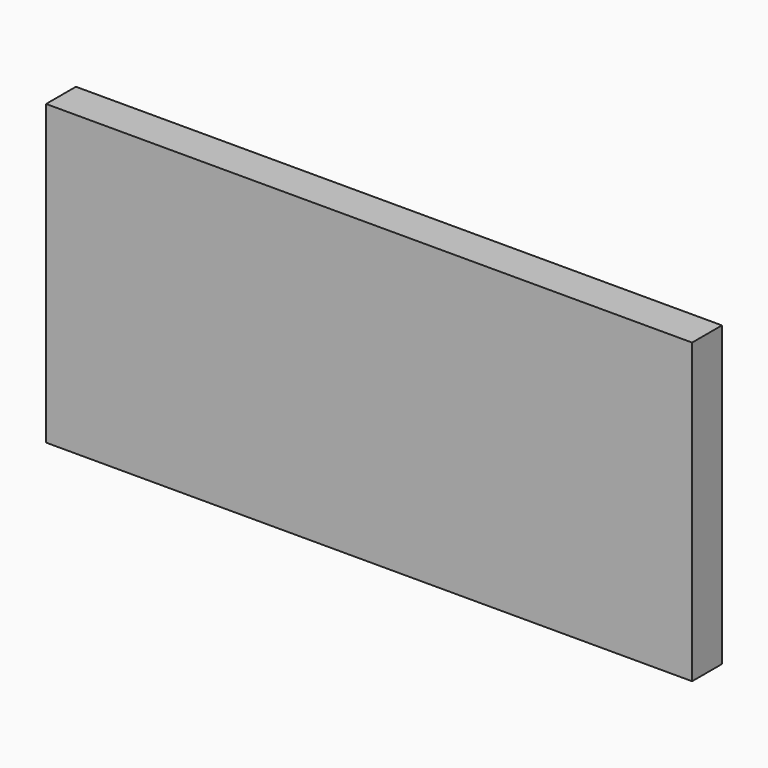
from build123d import *

# Parameters (mm, degrees)
F0_W     = 304.8
F0_H     = 152.4
F1_DEPTH = 19.05
F2_W     = 19.05
F2_H     = 25.4
F3_DEPTH = 25.4


with BuildPart() as f1:
    # F0 (on Front) → F1 (new body)
    with BuildSketch(Plane.XZ):
        with Locations((152.4, 76.2)):
            Rectangle(F0_W, F0_H)
    extrude(amount=-F1_DEPTH)

    # F2 (on face) → F3 (join)
    with BuildSketch(Plane.YZ.offset(304.8)):
        with Locations((9.525, 139.7)):
            Rectangle(F2_W, F2_H)
        with Locations((9.525, 114.3)):
            Rectangle(F2_W, F2_H)
        with Locations((9.525, 88.9)):
            Rectangle(F2_W, F2_H)
        with Locations((9.525, 63.5)):
            Rectangle(F2_W, F2_H)
        with Locations((9.525, 38.1)):
            Rectangle(F2_W, F2_H)
        with Locations((9.525, 12.7)):
            Rectangle(F2_W, F2_H)
    extrude(amount=F3_DEPTH)


solid = f1.part
